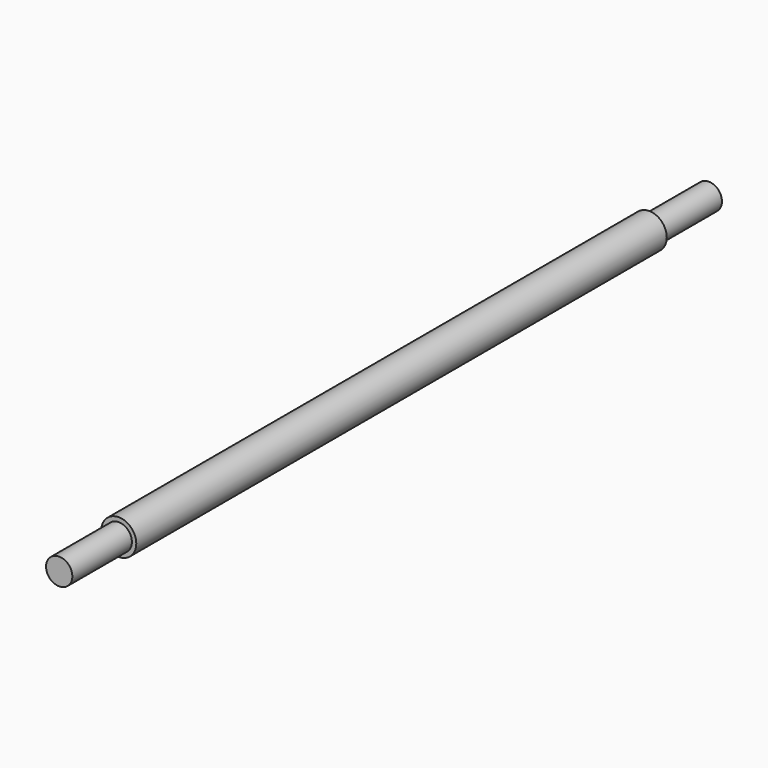
from build123d import *

# Parameters (mm, degrees)
F0_R     = 20
F1_DEPTH = 757
F2_R     = 15
F4_DEPTH = 85
F3_R     = 15
F5_DEPTH = 85


with BuildPart() as f1:
    # F0 (on Front) → F1 (new body)
    with BuildSketch(Plane.XZ):
        Circle(F0_R)
    extrude(amount=-F1_DEPTH)

    # F2 (on face) → F4 (join)
    with BuildSketch(Plane.XZ):
        Circle(F2_R)
    extrude(amount=F4_DEPTH)

    # F3 (on face) → F5 (join)
    with BuildSketch(Plane(origin=(0, 757, 0), x_dir=(-1, 0, 0), z_dir=(0, 1, 0))):
        Circle(F3_R)
    extrude(amount=F5_DEPTH)


solid = f1.part
